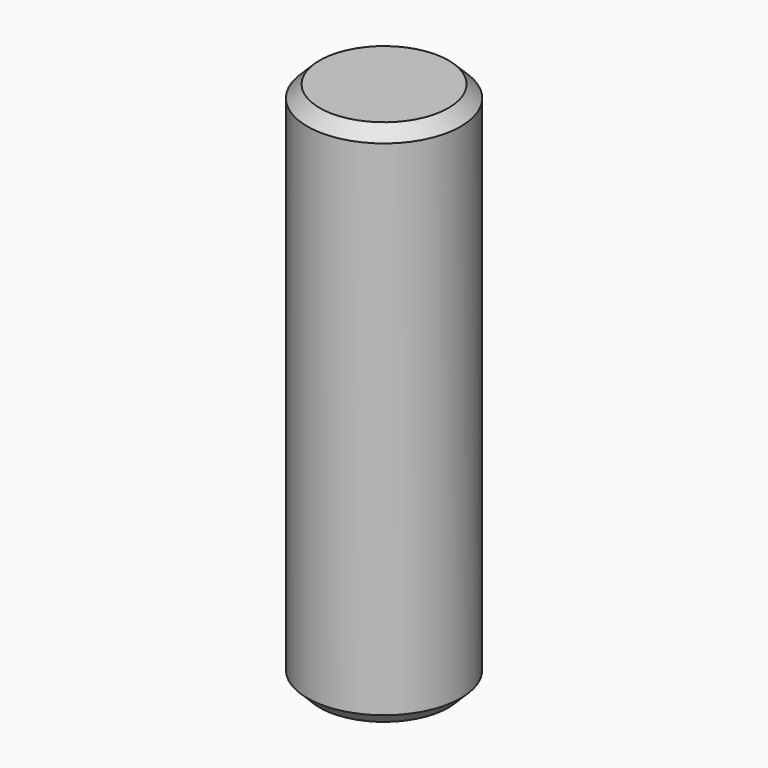
from build123d import *

# Parameters (mm, degrees)
F0_R     = 1.5875
F1_DEPTH = 10.922
F2_SIZE2 = 0.254
F2_SIZE  = 0.254


with BuildPart() as f1:
    # F0 (on Top) → F1 (new body)
    with BuildSketch(Plane.XY):
        Circle(F0_R)
    extrude(amount=F1_DEPTH)

    # F2
    f2_edges = [f1.edges().sort_by_distance(p)[0] for p in [
        (-1.5875, 0, 10.922),
        (-1.5875, 0, 0),
    ]]
    chamfer(f2_edges, length=F2_SIZE, length2=F2_SIZE2)


solid = f1.part
